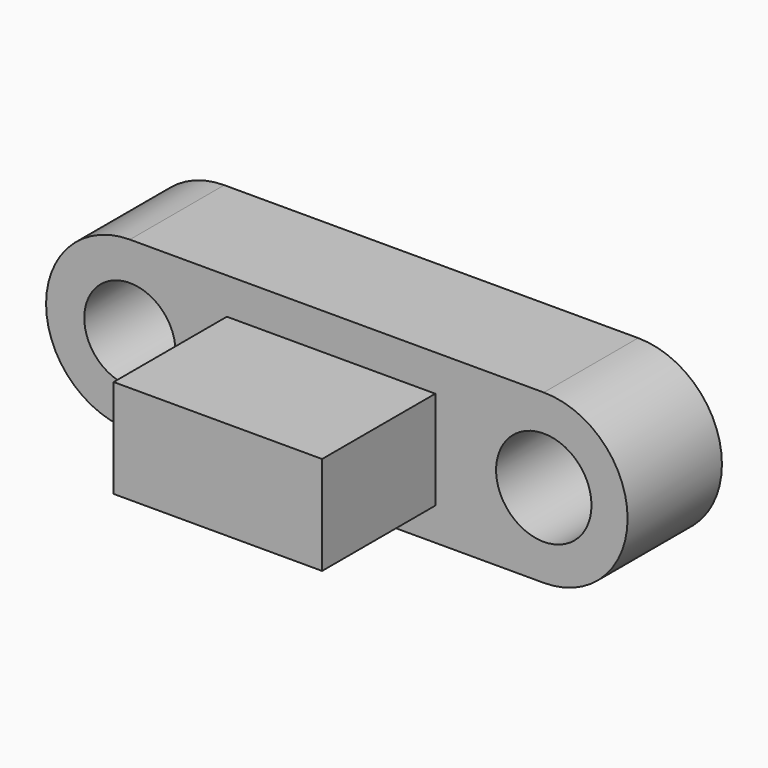
from build123d import *

# Parameters (mm, degrees)
F0_R     = 9.676044
F0_R_2   = 10.113879
F1_DEPTH = 25
F2_W     = 44.194454
F2_H     = 20.891926
F3_DEPTH = 55


with BuildPart() as f1:
    # F0 (on Front) → F1 (new body)
    with BuildSketch(Plane.XZ):
        with BuildLine():
            Line((44.099536, 19.965461), (-43.660723, 19.965461))
            ThreePointArc((-43.660723, 19.965461), (-61.432174, 2.194009), (-43.660723, -15.577443))
            Line((-43.660723, -15.577443), (44.099536, -15.577443))
            ThreePointArc((44.099536, -15.577443), (61.870988, 2.194009), (44.099536, 19.965461))
        make_face()
        with Locations((-43.660723, 2.194009)):
            Circle(F0_R, mode=Mode.SUBTRACT)
        with Locations((44.099536, 2.194009)):
            Circle(F0_R_2, mode=Mode.SUBTRACT)
    extrude(amount=F1_DEPTH)

    # F2 (on Front) → F3 (join)
    with BuildSketch(Plane.XZ):
        with Locations((-1.004419, 1.807958)):
            Rectangle(F2_W, F2_H)
    extrude(amount=F3_DEPTH)


solid = f1.part
